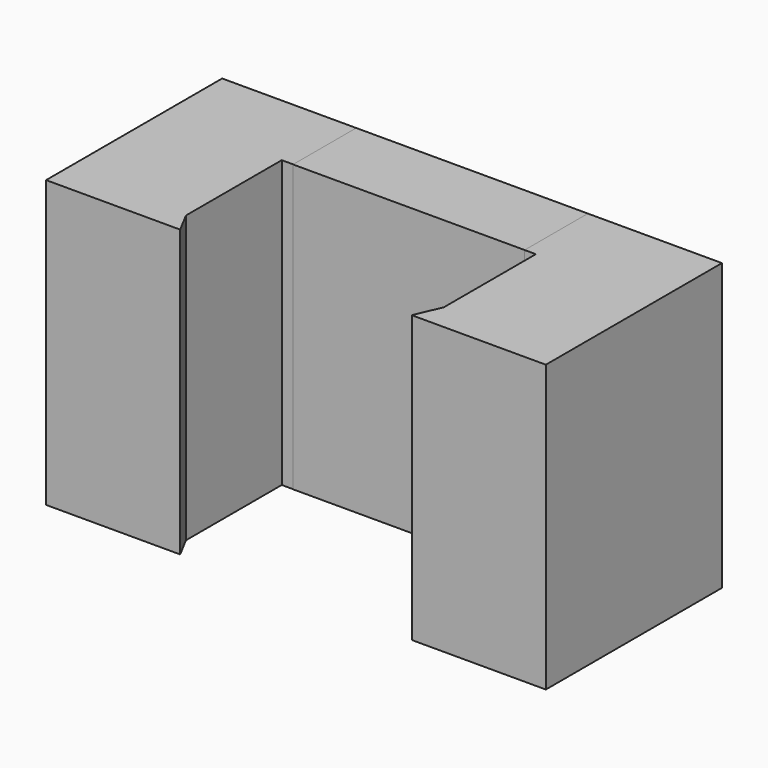
from build123d import *

# Parameters (mm, degrees)
F0_W     = 7.45
F0_H     = 15.89
F1_DEPTH = 12.23
F2_DEPTH = 4.39
F4_DEPTH = 25.4
F6_DEPTH = 25.4
F8_DEPTH = 15.891


with BuildPart() as f1:
    # F0 (on Front) → F1 (new body)
    with BuildSketch(Plane.XZ):
        with Locations((-3.725, -7.945)):
            Rectangle(F0_W, F0_H)
    extrude(amount=F1_DEPTH)

    # F3 (on face) → F4 (cut)
    with BuildSketch(Plane(origin=(0, 0, -15.89), x_dir=(1, 0, 0), z_dir=(0, 0, -1))):
        Polygon((-6.8272673525, 10.7781076804), (-7.45, 12.23), (-7.45, 4.4166920707), (-6.8272673525, 4.4166920707), align=None)
    extrude(amount=-F4_DEPTH, mode=Mode.SUBTRACT)

    # F7 (on face) → F8 (cut, through all)
    with BuildSketch(Plane(origin=(0, 0, -15.89), x_dir=(1, 0, 0), z_dir=(0, 0, -1))):
        Polygon((-6.8272673525, 4.4166920707), (-7.45, 4.4166920707), (-7.45, 4.3904888444), (-6.8275989033, 4.3904888444), align=None)
    extrude(amount=-F8_DEPTH, mode=Mode.SUBTRACT)


with BuildPart() as f1b:
    # F0 (on Front) → F1, piece 2 (new body)
    with BuildSketch(Plane.XZ):
        Polygon((-20.32, -11.7879714817), (-20.32, 0), (-27.77, 0), (-27.77, -15.89), (-20.32, -15.89), align=None)
    extrude(amount=F1_DEPTH)

    # F5 (on face) → F6 (cut)
    with BuildSketch(Plane(origin=(0, 0, -15.89), x_dir=(1, 0, 0), z_dir=(0, 0, -1))):
        Polygon((-20.955, 4.379324615), (-20.32, 4.379324615), (-20.32, 12.23), (-20.955, 11.0357683152), align=None)
    extrude(amount=-F6_DEPTH, mode=Mode.SUBTRACT)


with BuildPart() as f2:
    # F0 (on Front) → F2 (new body)
    with BuildSketch(Plane.XZ):
        Polygon((-7.45, -15.89), (-7.45, 0), (-20.32, 0), (-20.32, -11.7879714817), (-20.32, -15.89), align=None)
    extrude(amount=F2_DEPTH)


solid = Compound([f1.part, f1b.part, f2.part])
